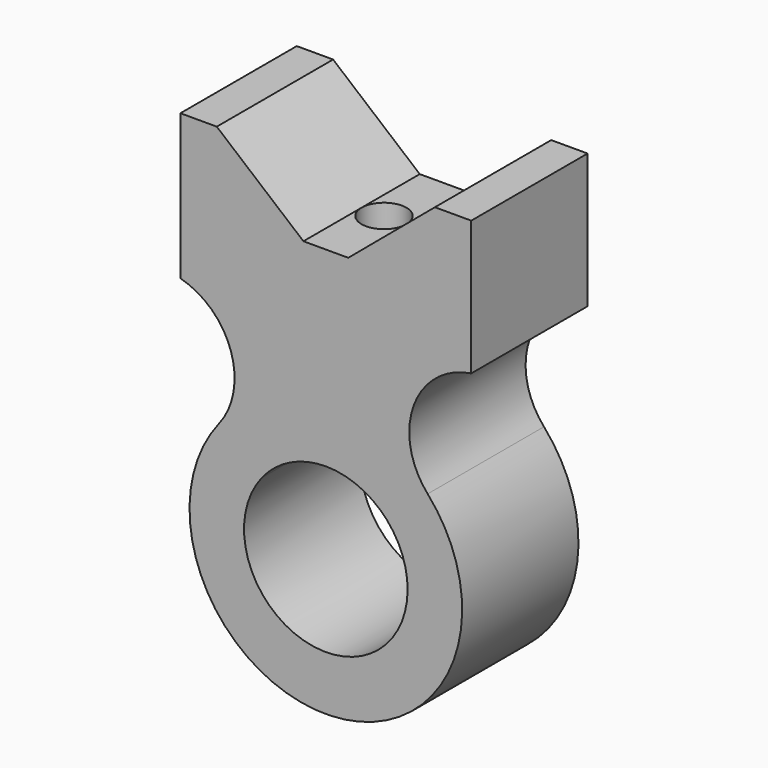
from build123d import *

# Parameters (mm, degrees)
F1_DEPTH = 1016
F2_R     = 156.5891749621
F3_DEPTH = 1355.3719613069


with BuildPart() as f1:
    # F0 (on Front) → F1 (new body)
    with BuildSketch(Plane.XZ):
        with BuildLine():
            Line((129.6612219315, 939.6068407932), (129.6612219315, -76.3931592068))
            ThreePointArc((129.6612219315, -76.3931592068), (481.9164717288, -406.8796001958), (398.4908598023, -882.6371182257))
            ThreePointArc((398.4908598023, -882.6371182257), (730.5942869888, -616.0859275114), (1145.6612219315, -520.8931592068))
            Line((1145.6612219315, -520.8931592068), (1145.6612219315, 431.6068407932))
            Line((1145.6612219315, 431.6068407932), (989.0720469693, 431.6068407932))
            Line((989.0720469693, 431.6068407932), (383.6612219315, 939.6068407932))
            Line((383.6612219315, 939.6068407932), (129.6612219315, 939.6068407932))
        make_face()
        with BuildLine():
            Line((1145.6612219315, 431.6068407932), (1145.6612219315, -520.8931592068))
            ThreePointArc((1145.6612219315, -520.8931592068), (1535.5967798457, -604.366973943), (1857.187123019, -840.1577037231))
            ThreePointArc((1857.187123019, -840.1577037231), (1759.0633544866, -329.3478091986), (2161.6612219315, 0))
            Line((2161.6612219315, 0), (2161.6612219315, 939.6068407932))
            Line((2161.6612219315, 939.6068407932), (1907.6612219315, 939.6068407932))
            Line((1907.6612219315, 939.6068407932), (1302.2503968936, 431.6068407932))
            Line((1302.2503968936, 431.6068407932), (1145.6612219315, 431.6068407932))
        make_face()
        with BuildLine():
            ThreePointArc((1857.187123019, -840.1577037231), (1535.5967798457, -604.366973943), (1145.6612219315, -520.8931592068))
            Line((1145.6612219315, -520.8931592068), (1145.6612219315, -901.8931592068))
            ThreePointArc((1145.6612219315, -901.8931592068), (1379.62255668, -951.9774480486), (1572.576762584, -1093.4518859166))
            Line((1572.576762584, -1093.4518859166), (1857.187123019, -840.1577037231))
        make_face()
        with BuildLine():
            ThreePointArc((1145.6612219315, -520.8931592068), (730.5942869888, -616.0859275114), (398.4908598023, -882.6371182257))
            Line((398.4908598023, -882.6371182257), (697.3590046539, -1118.9395346181))
            ThreePointArc((697.3590046539, -1118.9395346181), (896.6210609659, -959.0088201896), (1145.6612219315, -901.8931592068))
            Line((1145.6612219315, -901.8931592068), (1145.6612219315, -520.8931592068))
        make_face()
        with BuildLine():
            Line((697.3590046539, -1118.9395346181), (398.4908598023, -882.6371182257))
            ThreePointArc((398.4908598023, -882.6371182257), (832.9501091837, -2373.0975606432), (2098.1612219315, -1473.3931592068))
            ThreePointArc((2098.1612219315, -1473.3931592068), (2035.8816077871, -1134.624927805), (1857.187123019, -840.1577037231))
            Line((1857.187123019, -840.1577037231), (1572.576762584, -1093.4518859166))
            ThreePointArc((1572.576762584, -1093.4518859166), (1679.7934534448, -1270.1322203658), (1717.1612219315, -1473.3931592068))
            ThreePointArc((1717.1612219315, -1473.3931592068), (958.0345542828, -2013.2158000687), (697.3590046539, -1118.9395346181))
        make_face()
    extrude(amount=F1_DEPTH)

    # F2 (on face) → F3 (cut, through all)
    with BuildSketch(Plane.XY.offset(431.6068407932)):
        with Locations((1145.6612219315, -508)):
            Circle(F2_R)
    extrude(amount=-F3_DEPTH, mode=Mode.SUBTRACT)


solid = f1.part
